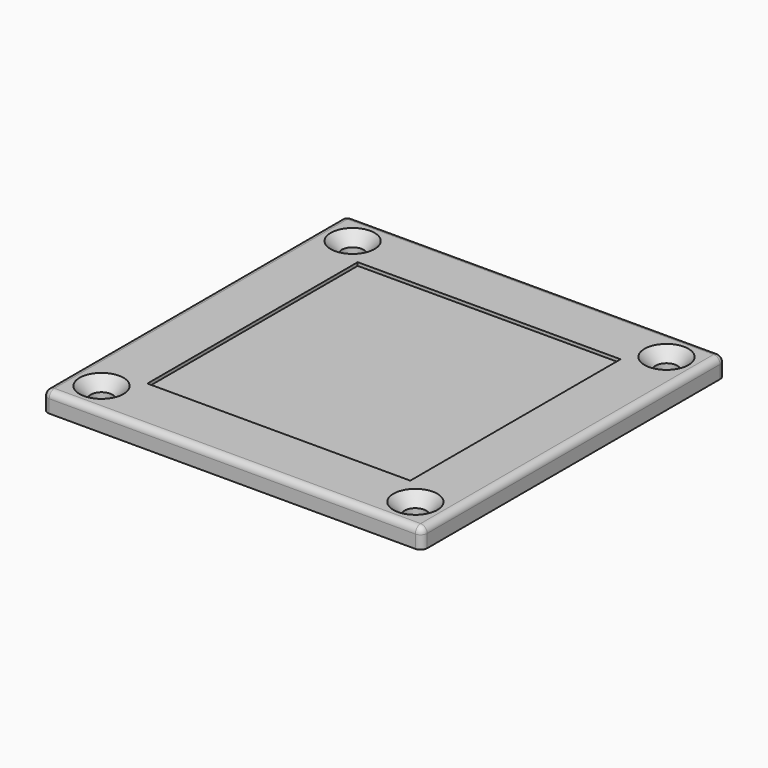
from build123d import *

# Parameters (mm, degrees)
F1_DEPTH       = 3
F2_R           = 1
F4_D           = 3.3
F4_CSINK_D     = 6.72
F4_CSINK_ANGLE = 90
F5_W           = 40.2
F5_H           = 40.2
F6_DEPTH       = 0.5


with BuildPart() as f1:
    # F0 (on Top) → F1 (new body)
    with BuildSketch(Plane.XY):
        with BuildLine():
            Line((-28, -29), (28, -29))
            ThreePointArc((28, -29), (28.7071067812, -28.7071067812), (29, -28))
            Line((29, -28), (29, 28))
            ThreePointArc((29, 28), (28.7071067812, 28.7071067812), (28, 29))
            Line((28, 29), (-28, 29))
            ThreePointArc((-28, 29), (-28.7071067812, 28.7071067812), (-29, 28))
            Line((-29, 28), (-29, -28))
            ThreePointArc((-29, -28), (-28.7071067812, -28.7071067812), (-28, -29))
        make_face()
    extrude(amount=F1_DEPTH)

    # F2
    f2_edges = [f1.edges().sort_by_distance(p)[0] for p in [
        (29, 0, 3),
    ]]
    fillet(f2_edges, radius=F2_R)

    # F4 (through all)
    with Locations(Plane.XY.offset(3)):
        with Locations((-24, 24), (24, 24), (-24, -24), (24, -24)):
            CounterSinkHole(F4_D / 2, F4_CSINK_D / 2, counter_sink_angle=F4_CSINK_ANGLE)

    # F5 (on face) → F6 (cut)
    with BuildSketch(Plane.XY.offset(3)):
        Rectangle(F5_W, F5_H)
    extrude(amount=-F6_DEPTH, mode=Mode.SUBTRACT)


solid = f1.part
